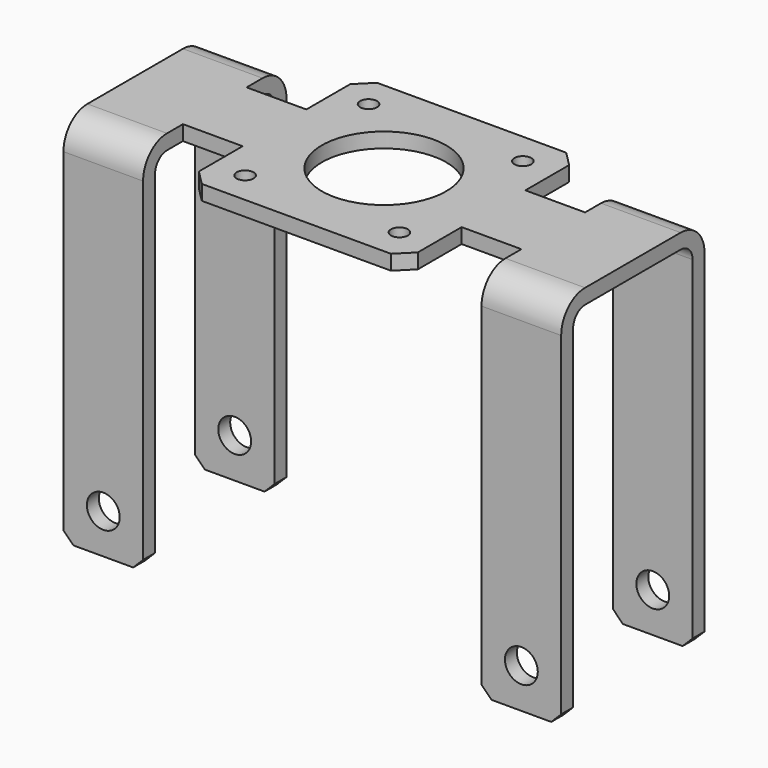
from build123d import *

# Parameters (mm, degrees)
SKETCH_W        = 44
SKETCH_H        = 44
SKETCH_R        = 12.5
SKETCH_R_2      = 1.7
SKETCH_W_2      = 12
SKETCH_H_2      = 16
PAD_DEPTH       = 3
CHAMFER_SIZE    = 3
PAD001_DEPTH    = 16
FILLET_R        = 6
FILLET001_R     = 3
CHAMFER001_SIZE = 2
SKETCH002_R     = 3.3
HOLE_DEPTH      = 40.001


with BuildPart() as part:
    # Sketch → Pad (new body)
    with BuildSketch(Plane.XY):
        Rectangle(SKETCH_W, SKETCH_H)
        Circle(SKETCH_R, mode=Mode.SUBTRACT)
        with Locations((-15.5, 15.5)):
            Circle(SKETCH_R_2, mode=Mode.SUBTRACT)
        with Locations((15.5, 15.5)):
            Circle(SKETCH_R_2, mode=Mode.SUBTRACT)
        with Locations((15.5, -15.5)):
            Circle(SKETCH_R_2, mode=Mode.SUBTRACT)
        with Locations((-15.5, -15.5)):
            Circle(SKETCH_R_2, mode=Mode.SUBTRACT)
        with Locations((28, 0)):
            Rectangle(SKETCH_W_2, SKETCH_H_2)
        with Locations((-28, 0)):
            Rectangle(SKETCH_W_2, SKETCH_H_2)
    extrude(amount=PAD_DEPTH)

    # Chamfer
    chamfer_edges = [part.edges().sort_by_distance(p)[0] for p in [
        (-22, -22, 1.5),
        (22, -22, 1.5),
        (22, 22, 1.5),
        (-22, 22, 1.5),
    ]]
    chamfer(chamfer_edges, length=CHAMFER_SIZE)

    # Sketch001 (on Face11 of Chamfer) → Pad001 (join)
    with BuildSketch(Plane.YZ.offset(34)):
        Polygon((0, 0), (15, 0), (15, -72), (18, -72), (18, 3), (-18, 3), (-18, -72), (-15, -72), (-15, 0), align=None)
    pad001 = extrude(amount=PAD001_DEPTH)

    # Mirrored: Pad001 across YZ
    add(pad001.mirror(Plane.YZ))

    # Fillet
    fillet_edges = [part.edges().sort_by_distance(p)[0] for p in [
        (-42, -18, 3),
        (-42, 18, 3),
        (42, -18, 3),
        (42, 18, 3),
    ]]
    fillet(fillet_edges, radius=FILLET_R)

    # Fillet001
    fillet001_edges = [part.edges().sort_by_distance(p)[0] for p in [
        (-42, 15, 0),
        (42, 15, 0),
        (42, -15, 0),
        (-42, -15, 0),
    ]]
    fillet(fillet001_edges, radius=FILLET001_R)

    # Chamfer001
    chamfer001_edges = [part.edges().sort_by_distance(p)[0] for p in [
        (-50, -16.5, -72),
        (-34, -16.5, -72),
        (-50, 16.5, -72),
        (-34, 16.5, -72),
        (34, -16.5, -72),
        (50, -16.5, -72),
        (34, 16.5, -72),
        (50, 16.5, -72),
    ]]
    chamfer(chamfer001_edges, length=CHAMFER001_SIZE)

    # Sketch002 (on Face46 of Chamfer001) → Hole (cut, through all)
    with BuildSketch(Plane.XZ.offset(18)):
        with Locations((-42, -64)):
            Circle(SKETCH002_R)
        with Locations((42, -64)):
            Circle(SKETCH002_R)
    extrude(amount=-HOLE_DEPTH, mode=Mode.SUBTRACT)


solid = part.part
